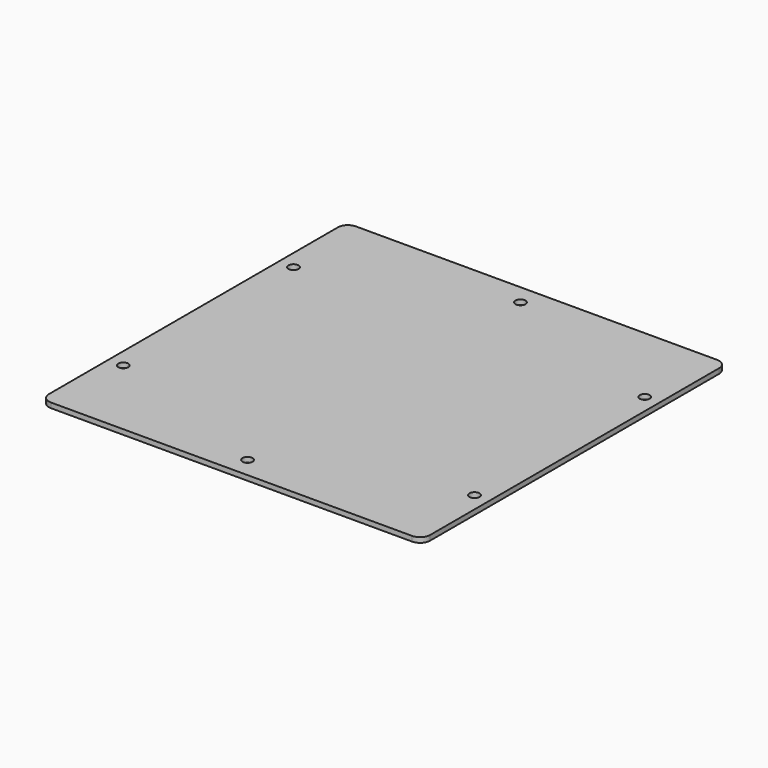
from build123d import *

# Parameters (mm, degrees)
F0_R     = 1.5875
F1_DEPTH = 1.5875


with BuildPart() as f1:
    # F0 (on Top) → F1 (new body)
    with BuildSketch(Plane.XY):
        with BuildLine():
            Line((57.15, 60.325), (-57.15, 60.325))
            ThreePointArc((-57.15, 60.325), (-59.395064, 59.395064), (-60.325, 57.15))
            Line((-60.325, 57.15), (-60.325, -57.15))
            ThreePointArc((-60.325, -57.15), (-59.395064, -59.395064), (-57.15, -60.325))
            Line((-57.15, -60.325), (57.15, -60.325))
            ThreePointArc((57.15, -60.325), (59.395064, -59.395064), (60.325, -57.15))
            Line((60.325, -57.15), (60.325, 57.15))
            ThreePointArc((60.325, 57.15), (59.395064, 59.395064), (57.15, 60.325))
        make_face()
        with Locations((-55.5625, -33.655)):
            Circle(F0_R, mode=Mode.SUBTRACT)
        with Locations((0, -53.975)):
            Circle(F0_R, mode=Mode.SUBTRACT)
        with Locations((55.5625, -33.655)):
            Circle(F0_R, mode=Mode.SUBTRACT)
        with Locations((-55.5625, 33.655)):
            Circle(F0_R, mode=Mode.SUBTRACT)
        with Locations((0, 53.975)):
            Circle(F0_R, mode=Mode.SUBTRACT)
        with Locations((55.5625, 33.655)):
            Circle(F0_R, mode=Mode.SUBTRACT)
    extrude(amount=F1_DEPTH)


solid = f1.part
